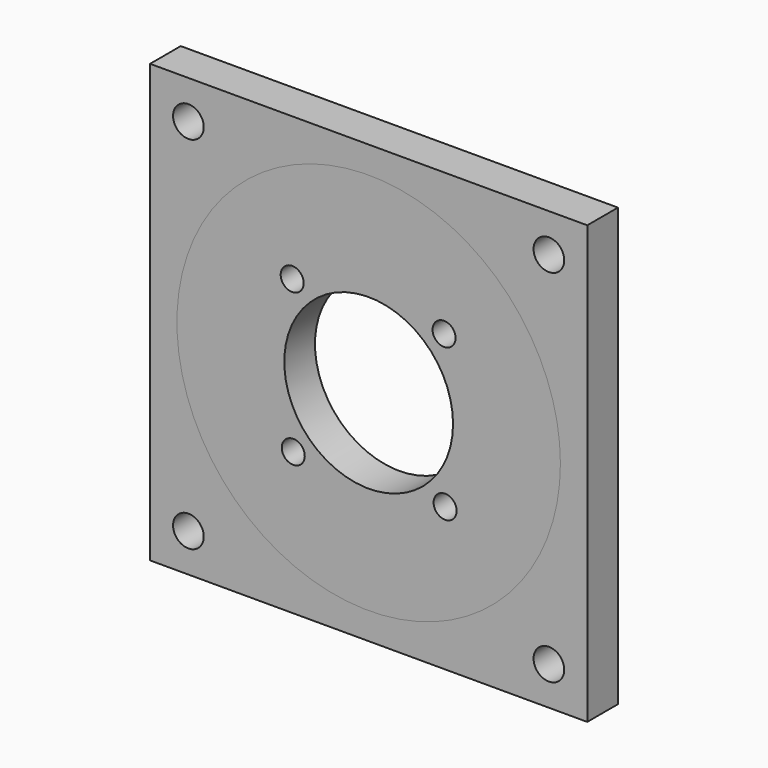
from build123d import *

# Parameters (mm, degrees)
F0_W     = 57
F0_H     = 57
F0_R     = 2
F0_R_2   = 25
F1_DEPTH = 5
F0_R_3   = 20
F2_DEPTH = 5
F0_R_4   = 1.5
F0_R_5   = 11
F3_DEPTH = 5


with BuildPart() as f1:
    # F0 (on Front) → F1 (new body)
    with BuildSketch(Plane.XZ):
        Rectangle(F0_W, F0_H)
        with Locations((-23.5, -23.5)):
            Circle(F0_R, mode=Mode.SUBTRACT)
        with Locations((23.5, -23.5)):
            Circle(F0_R, mode=Mode.SUBTRACT)
        with Locations((-23.5, 23.5)):
            Circle(F0_R, mode=Mode.SUBTRACT)
        Circle(F0_R_2, mode=Mode.SUBTRACT)
        with Locations((23.5, 23.5)):
            Circle(F0_R, mode=Mode.SUBTRACT)
    extrude(amount=F1_DEPTH)


with BuildPart() as f2:
    # F0 (on Front) → F2 (new body)
    with BuildSketch(Plane.XZ):
        Circle(F0_R_2)
        Circle(F0_R_3, mode=Mode.SUBTRACT)
    extrude(amount=F2_DEPTH)


with BuildPart() as f3:
    # F0 (on Front) → F3 (new body)
    with BuildSketch(Plane.XZ):
        Circle(F0_R_2)
        Circle(F0_R_3, mode=Mode.SUBTRACT)
        Circle(F0_R_3)
        with Locations((-9.8297189121, -9.9687825791)):
            Circle(F0_R_4, mode=Mode.SUBTRACT)
        with Locations((9.9687825791, -9.8297189121)):
            Circle(F0_R_4, mode=Mode.SUBTRACT)
        with Locations((-9.9687825791, 9.8297189121)):
            Circle(F0_R_4, mode=Mode.SUBTRACT)
        Circle(F0_R_5, mode=Mode.SUBTRACT)
        with Locations((9.8297189121, 9.9687825791)):
            Circle(F0_R_4, mode=Mode.SUBTRACT)
    extrude(amount=F3_DEPTH)


solid = Compound([f1.part, f2.part, f3.part])
